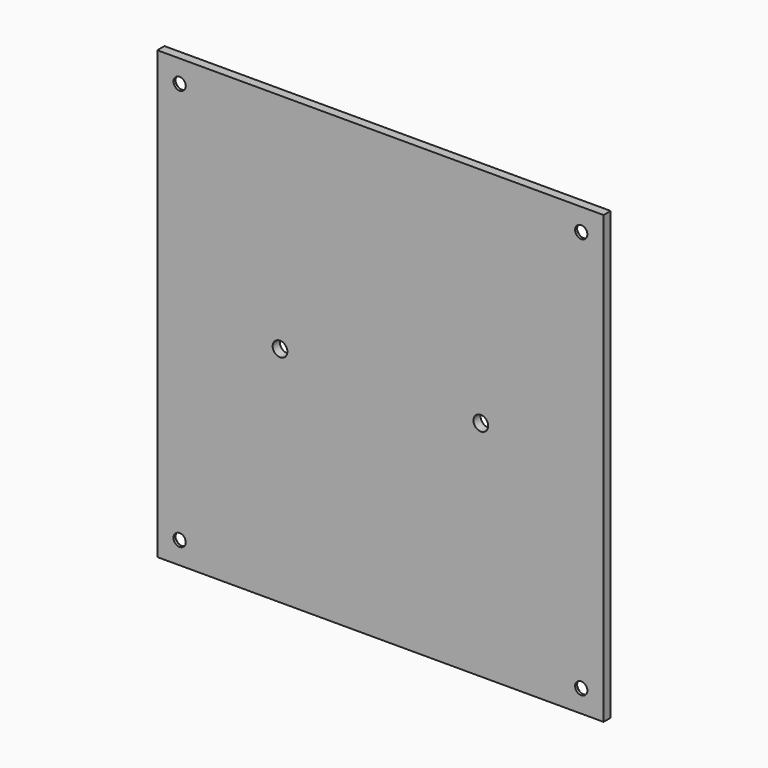
from build123d import *

# Parameters (mm, degrees)
F0_W           = 200
F0_H           = 200
F1_DEPTH       = 4
F2_D           = 6.6
F3_D           = 5.5
F3_CSINK_D     = 11.2
F3_CSINK_ANGLE = 90


with BuildPart() as f1:
    # F0 (on Front) → F1 (new body)
    with BuildSketch(Plane.XZ):
        Rectangle(F0_W, F0_H)
    extrude(amount=F1_DEPTH)

    # F2 (through all)
    with Locations(Plane(origin=(0, 0, 0), x_dir=(1, 0, 0), z_dir=(0, 1, 0))):
        with Locations((-45, 0), (45, 0)):
            Hole(F2_D / 2)

    # F3 (through all)
    with Locations(Plane(origin=(0, 0, 0), x_dir=(1, 0, 0), z_dir=(0, 1, 0))):
        with Locations((-90, -90), (90, -90), (-90, 90), (90, 90)):
            CounterSinkHole(F3_D / 2, F3_CSINK_D / 2, counter_sink_angle=F3_CSINK_ANGLE)


solid = f1.part
